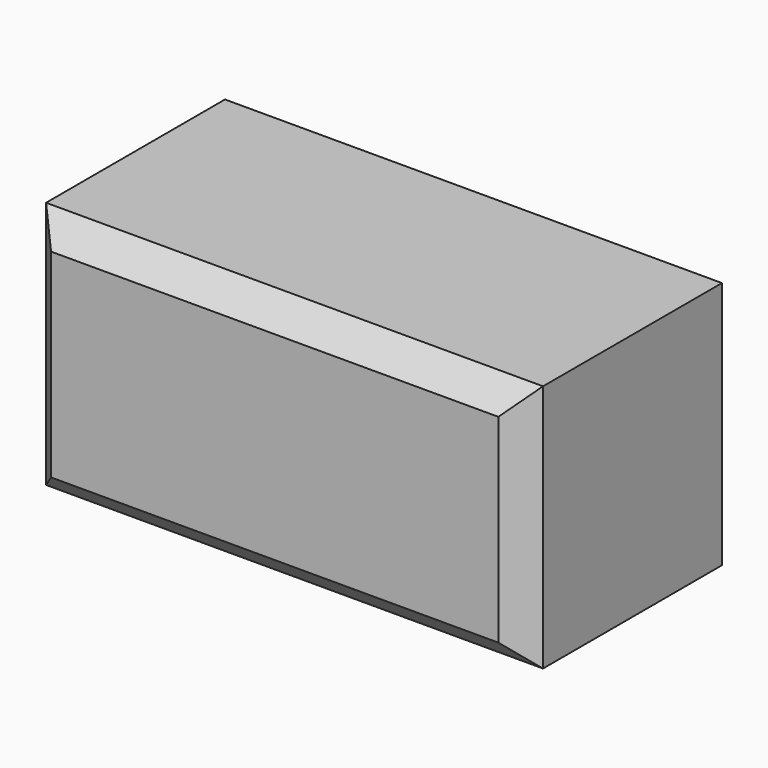
from build123d import *

# Parameters (mm, degrees)
F0_W     = 100
F0_H     = 50
F1_DEPTH = 50
F2_SIZE  = 5


with BuildPart() as f1:
    # F0 (on Top) → F1 (new body)
    with BuildSketch(Plane.XY):
        with Locations((2e-06, -11.782764)):
            Rectangle(F0_W, F0_H)
    extrude(amount=F1_DEPTH)

    # F2
    f2_edges = [f1.edges().sort_by_distance(p)[0] for p in [
        (-49.999998, -36.782764, 25),
        (2e-06, -36.782764, 0),
        (2e-06, -36.782764, 50),
        (50.000002, -36.782764, 25),
    ]]
    chamfer(f2_edges, length=F2_SIZE)


solid = f1.part
